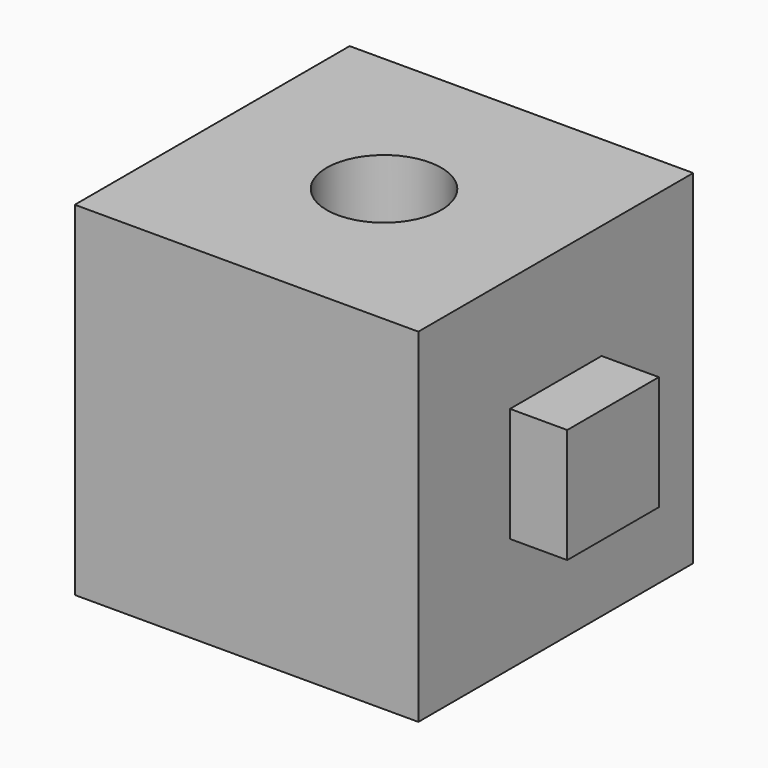
from build123d import *

# Parameters (mm, degrees)
F0_W     = 76.2
F0_H     = 76.2
F1_DEPTH = 76.2
F3_D     = 25.4
F4_W     = 25.4
F4_H     = 25.4
F5_DEPTH = 12.7
F6_R     = 12.7
F7_DEPTH = 12.7


with BuildPart() as f1:
    # F0 (on Front) → F1 (new body)
    with BuildSketch(Plane.XZ):
        with Locations((-38.1, -38.1)):
            Rectangle(F0_W, F0_H)
    extrude(amount=F1_DEPTH)

    # F3 (through all)
    with Locations(Plane.XY):
        with Locations((-38.1, -38.1)):
            Hole(F3_D / 2)

    # F4 (on face) → F5 (join)
    with BuildSketch(Plane.YZ):
        with Locations((-38.1, -38.1)):
            Rectangle(F4_W, F4_H)
    extrude(amount=F5_DEPTH)

    # F6 (on face) → F7 (join)
    with BuildSketch(Plane(origin=(0, 0, 0), x_dir=(-1, 0, 0), z_dir=(0, 1, 0))):
        with Locations((38.1, -38.1)):
            Circle(F6_R)
    extrude(amount=F7_DEPTH)


solid = f1.part
